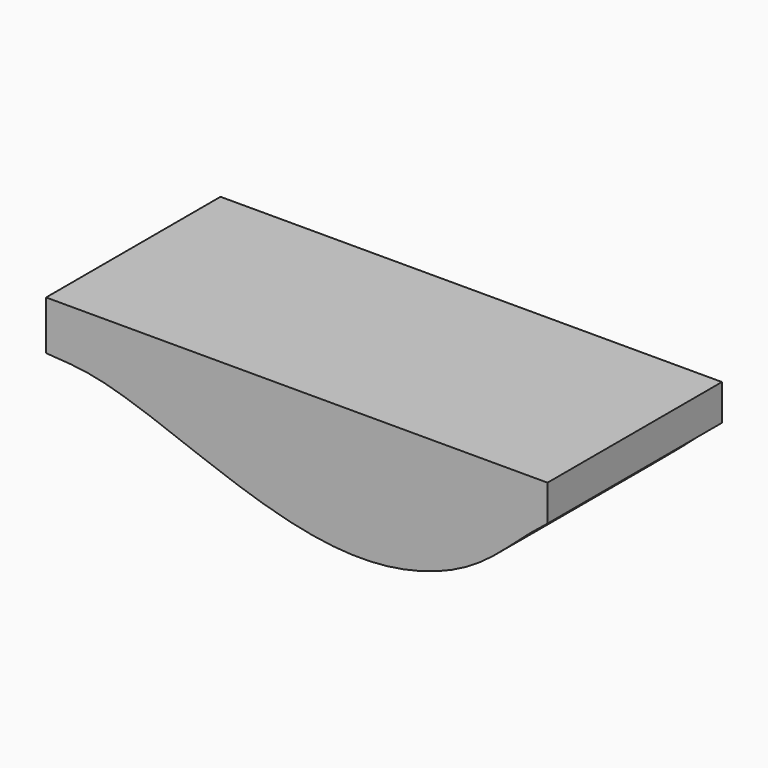
from build123d import *

# Parameters (mm, degrees)
F1_DEPTH = 200


with BuildPart() as f1:
    # F0 (on Front) → F1 (new body)
    with BuildSketch(Plane.XZ):
        with BuildLine():
            Line((358.5877692103, 43.8160607009), (-101.4122307897, 43.8160607009))
            Line((-101.4122307897, 43.8160607009), (-101.4122307897, -1.1839392991))
            add(Edge.make_bspline(
                [(-101.4122307897, -1.1839392991), (-87.4752973381, -2.0070930861), (-53.5999338515, -3.4989601098), (14.7632174099, -28.3579276385), (81.6914908883, -54.2194249316), (151.2337635521, -72.993375981), (220.8664828205, -74.4798819476), (291.0699478753, -50.2165310003), (333.8737851972, -8.7657081982), (351.9870248646, 5.6194428127), (358.5877692103, 10.8160607009)],
                knots=[0, 0, 0, 0, 0.1091371627, 0.2456755803, 0.3831225215, 0.5183737868, 0.6516470519, 0.7890939931, 0.9123673401, 1, 1, 1, 1], degree=3))
            Line((358.5877692103, 10.8160607009), (358.5877692103, 43.8160607009))
        make_face()
    extrude(amount=F1_DEPTH)


solid = f1.part
